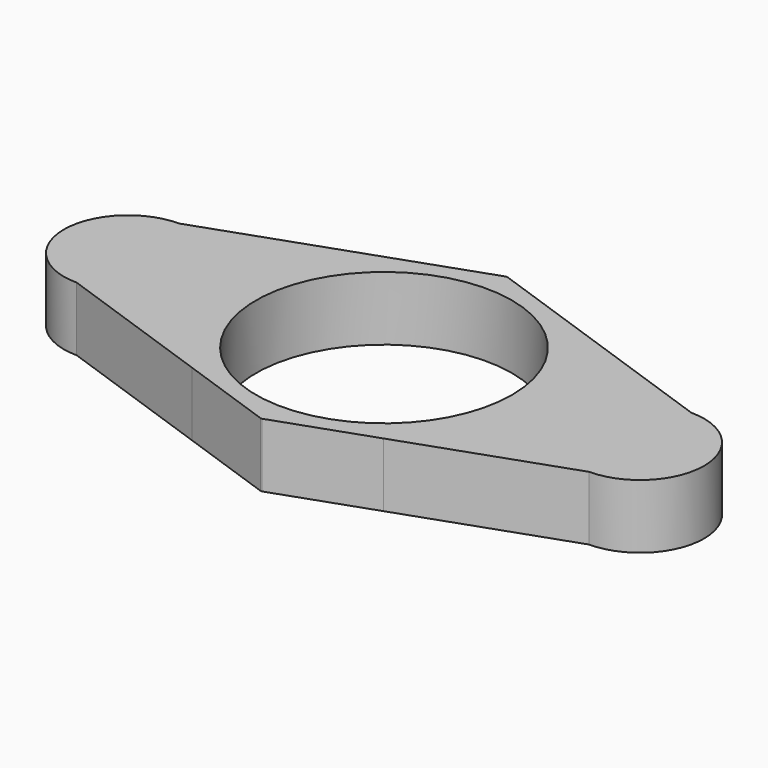
from build123d import *

# Parameters (mm, degrees)
F0_R     = 10
F1_DEPTH = 5


with BuildPart() as f1:
    # F0 (on Top) → F1 (new body)
    with BuildSketch(Plane.XY):
        with BuildLine():
            Line((-7.483296, 9.380846), (-20, 5))
            ThreePointArc((-20, 5), (-25, 0), (-20, -5))
            Line((-20, -5), (-7.483296, -9.380846))
            ThreePointArc((-7.483296, -9.380846), (-12, 0), (-7.483296, 9.380846))
        make_face()
        with BuildLine():
            Line((-0.06607, 11.976875), (-7.483296, 9.380846))
            ThreePointArc((-7.483296, 9.380846), (-12, 0), (-7.483296, -9.380846))
            Line((-7.483296, -9.380846), (-0.06607, -11.976875))
            ThreePointArc((-0.06607, -11.976875), (0, -11.988104), (0.06607, -11.976875))
            Line((0.06607, -11.976875), (7.483296, -9.380846))
            ThreePointArc((7.483296, -9.380846), (12, 0), (7.483296, 9.380846))
            Line((7.483296, 9.380846), (0.06607, 11.976875))
            ThreePointArc((0.06607, 11.976875), (0, 11.988104), (-0.06607, 11.976875))
        make_face()
        Circle(F0_R, mode=Mode.SUBTRACT)
        with BuildLine():
            Line((20, 5), (7.483296, 9.380846))
            ThreePointArc((7.483296, 9.380846), (12, 0), (7.483296, -9.380846))
            Line((7.483296, -9.380846), (20, -5))
            ThreePointArc((20, -5), (25, 0), (20, 5))
        make_face()
    extrude(amount=F1_DEPTH)


solid = f1.part
